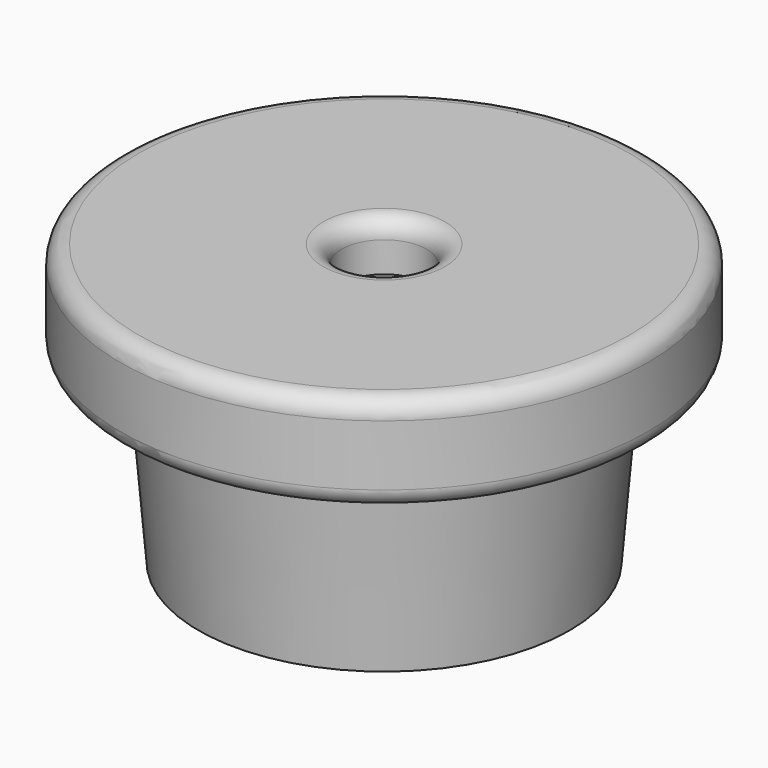
from build123d import *

# Parameters (mm, degrees)
F2_R = 1.5
F3_R = 5


with BuildPart() as f1:
    # F0 (on Front) → F1 (revolve)
    with BuildSketch(Plane.XZ):
        Polygon((21.7, 11.509762), (3.5, 11.509762), (3.5, 7.509762), (12.506023, 7.509762), (12.506023, -9.490238), (10.506023, -9.490238), (10.506023, -11.490238), (15.25, -11.490238), (16.5, 3.509762), (21.7, 3.509762), align=None)
    revolve(axis=Axis((0, 0, -6.313648), (0, 0, -1)))

    # F2
    f2_edges = [f1.edges().sort_by_distance(p)[0] for p in [
        (-3.5, 0, 11.509762),
        (-21.7, 0, 11.509762),
        (-21.7, 0, 3.509762),
        (-16.5, 0, 3.509762),
    ]]
    fillet(f2_edges, radius=F2_R)

    # F3
    f3_edges = [f1.edges().sort_by_distance(p)[0] for p in [
        (-12.506023, 0, 7.509762),
    ]]
    fillet(f3_edges, radius=F3_R)


solid = f1.part
